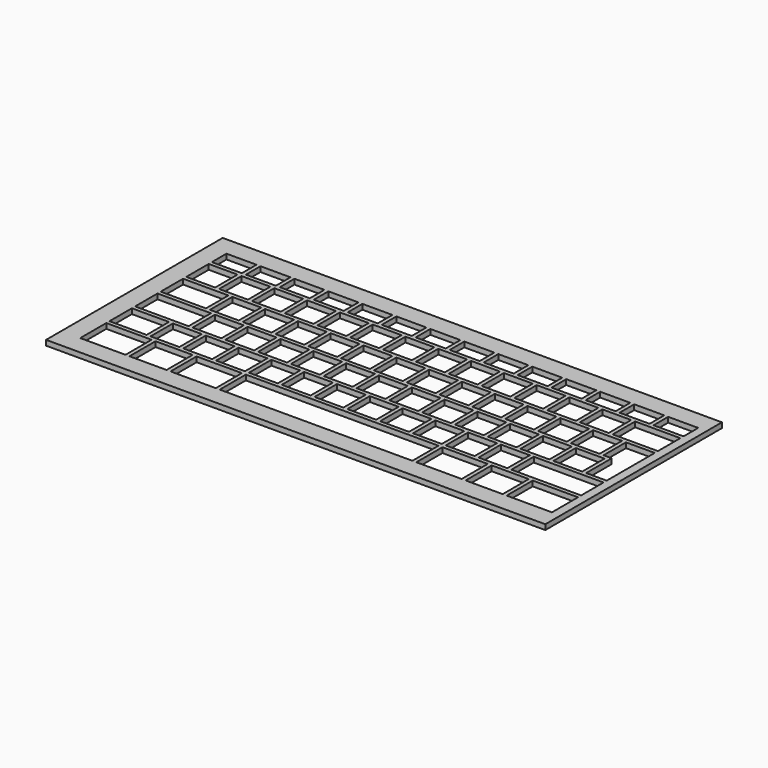
from build123d import *

# Parameters (mm, degrees)
F0_W     = 26.25
F0_H     = 18.9
F0_W_2   = 21.5
F0_H_2   = 16.25
F0_W_3   = 16.72
F0_W_4   = 31
F0_W_5   = 111.7
F0_W_6   = 40.44
F0_W_7   = 17.4
F0_H_3   = 10.6
F0_W_8   = 26.2
F1_DEPTH = 3


with BuildPart() as f1:
    # F0 (on Top) → F1 (new body)
    with BuildSketch(Plane.XY):
        Polygon((75.046707, -80.251948), (-214.413293, -80.251948), (-214.413293, -208.251948), (75.046707, -208.251948), (75.046707, -201.251948), (75.046707, -87.251948), align=None)
        with Locations((-190.288293, -187.801948)):
            Rectangle(F0_W, F0_H, mode=Mode.SUBTRACT)
        with Locations((-164.113293, -187.801948)):
            Rectangle(F0_W_2, F0_H, mode=Mode.SUBTRACT)
        with Locations((-137.938293, -187.801948)):
            Rectangle(F0_W, F0_H, mode=Mode.SUBTRACT)
        with Locations((-192.663293, -167.926948)):
            Rectangle(F0_W_2, F0_H_2, mode=Mode.SUBTRACT)
        with Locations((-171.253293, -167.926948)):
            Rectangle(F0_W_3, F0_H_2, mode=Mode.SUBTRACT)
        with Locations((-152.233293, -167.926948)):
            Rectangle(F0_W_3, F0_H_2, mode=Mode.SUBTRACT)
        with Locations((-187.913293, -149.376948)):
            Rectangle(F0_W_4, F0_H_2, mode=Mode.SUBTRACT)
        with Locations((-161.753293, -149.376948)):
            Rectangle(F0_W_3, F0_H_2, mode=Mode.SUBTRACT)
        with Locations((-142.733293, -149.376948)):
            Rectangle(F0_W_3, F0_H_2, mode=Mode.SUBTRACT)
        with Locations((-133.213293, -167.926948)):
            Rectangle(F0_W_3, F0_H_2, mode=Mode.SUBTRACT)
        with Locations((-114.193293, -167.926948)):
            Rectangle(F0_W_3, F0_H_2, mode=Mode.SUBTRACT)
        with Locations((-95.173293, -167.926948)):
            Rectangle(F0_W_3, F0_H_2, mode=Mode.SUBTRACT)
        with Locations((-76.153293, -167.926948)):
            Rectangle(F0_W_3, F0_H_2, mode=Mode.SUBTRACT)
        with Locations((-123.713293, -149.376948)):
            Rectangle(F0_W_3, F0_H_2, mode=Mode.SUBTRACT)
        with Locations((-104.693293, -149.376948)):
            Rectangle(F0_W_3, F0_H_2, mode=Mode.SUBTRACT)
        with Locations((-85.673293, -149.376948)):
            Rectangle(F0_W_3, F0_H_2, mode=Mode.SUBTRACT)
        with Locations((-66.663293, -187.801948)):
            Rectangle(F0_W_5, F0_H, mode=Mode.SUBTRACT)
        with Locations((4.611707, -187.801948)):
            Rectangle(F0_W, F0_H, mode=Mode.SUBTRACT)
        with Locations((30.786707, -187.801948)):
            Rectangle(F0_W_2, F0_H, mode=Mode.SUBTRACT)
        with Locations((56.961707, -187.801948)):
            Rectangle(F0_W, F0_H, mode=Mode.SUBTRACT)
        with Locations((-57.133293, -167.926948)):
            Rectangle(F0_W_3, F0_H_2, mode=Mode.SUBTRACT)
        with Locations((-38.113293, -167.926948)):
            Rectangle(F0_W_3, F0_H_2, mode=Mode.SUBTRACT)
        with Locations((-19.093293, -167.926948)):
            Rectangle(F0_W_3, F0_H_2, mode=Mode.SUBTRACT)
        with Locations((-0.073293, -167.926948)):
            Rectangle(F0_W_3, F0_H_2, mode=Mode.SUBTRACT)
        with Locations((-66.653293, -149.376948)):
            Rectangle(F0_W_3, F0_H_2, mode=Mode.SUBTRACT)
        with Locations((-47.633293, -149.376948)):
            Rectangle(F0_W_3, F0_H_2, mode=Mode.SUBTRACT)
        with Locations((-28.613293, -149.376948)):
            Rectangle(F0_W_3, F0_H_2, mode=Mode.SUBTRACT)
        with Locations((-9.593293, -149.376948)):
            Rectangle(F0_W_3, F0_H_2, mode=Mode.SUBTRACT)
        with Locations((18.946707, -167.926948)):
            Rectangle(F0_W_3, F0_H_2, mode=Mode.SUBTRACT)
        with Locations((49.826707, -167.926948)):
            Rectangle(F0_W_6, F0_H_2, mode=Mode.SUBTRACT)
        with Locations((9.426707, -149.376948)):
            Rectangle(F0_W_3, F0_H_2, mode=Mode.SUBTRACT)
        with Locations((28.446707, -149.376948)):
            Rectangle(F0_W_3, F0_H_2, mode=Mode.SUBTRACT)
        with Locations((47.466707, -149.376948)):
            Rectangle(F0_W_3, F0_H_2, mode=Mode.SUBTRACT)
        with Locations((-190.288293, -130.826948)):
            Rectangle(F0_W, F0_H_2, mode=Mode.SUBTRACT)
        with Locations((-166.503293, -130.826948)):
            Rectangle(F0_W_3, F0_H_2, mode=Mode.SUBTRACT)
        with Locations((-147.483293, -130.826948)):
            Rectangle(F0_W_3, F0_H_2, mode=Mode.SUBTRACT)
        with Locations((-195.053293, -112.276948)):
            Rectangle(F0_W_3, F0_H_2, mode=Mode.SUBTRACT)
        with Locations((-176.033293, -112.276948)):
            Rectangle(F0_W_3, F0_H_2, mode=Mode.SUBTRACT)
        with Locations((-157.013293, -112.276948)):
            Rectangle(F0_W_3, F0_H_2, mode=Mode.SUBTRACT)
        with Locations((-128.463293, -130.826948)):
            Rectangle(F0_W_3, F0_H_2, mode=Mode.SUBTRACT)
        with Locations((-109.443293, -130.826948)):
            Rectangle(F0_W_3, F0_H_2, mode=Mode.SUBTRACT)
        with Locations((-90.423293, -130.826948)):
            Rectangle(F0_W_3, F0_H_2, mode=Mode.SUBTRACT)
        with Locations((-71.403293, -130.826948)):
            Rectangle(F0_W_3, F0_H_2, mode=Mode.SUBTRACT)
        with Locations((-137.993293, -112.276948)):
            Rectangle(F0_W_3, F0_H_2, mode=Mode.SUBTRACT)
        with Locations((-118.973293, -112.276948)):
            Rectangle(F0_W_3, F0_H_2, mode=Mode.SUBTRACT)
        with Locations((-99.953293, -112.276948)):
            Rectangle(F0_W_3, F0_H_2, mode=Mode.SUBTRACT)
        with Locations((-80.933293, -112.276948)):
            Rectangle(F0_W_3, F0_H_2, mode=Mode.SUBTRACT)
        with Locations((-194.713293, -96.551948)):
            Rectangle(F0_W_7, F0_H_3, mode=Mode.SUBTRACT)
        with Locations((-175.013293, -96.551948)):
            Rectangle(F0_W_7, F0_H_3, mode=Mode.SUBTRACT)
        with Locations((-155.313293, -96.551948)):
            Rectangle(F0_W_7, F0_H_3, mode=Mode.SUBTRACT)
        with Locations((-135.613293, -96.551948)):
            Rectangle(F0_W_7, F0_H_3, mode=Mode.SUBTRACT)
        with Locations((-115.913293, -96.551948)):
            Rectangle(F0_W_7, F0_H_3, mode=Mode.SUBTRACT)
        with Locations((-96.213293, -96.551948)):
            Rectangle(F0_W_7, F0_H_3, mode=Mode.SUBTRACT)
        with Locations((-76.513293, -96.551948)):
            Rectangle(F0_W_7, F0_H_3, mode=Mode.SUBTRACT)
        with Locations((-52.383293, -130.826948)):
            Rectangle(F0_W_3, F0_H_2, mode=Mode.SUBTRACT)
        with Locations((-33.363293, -130.826948)):
            Rectangle(F0_W_3, F0_H_2, mode=Mode.SUBTRACT)
        with Locations((-14.343293, -130.826948)):
            Rectangle(F0_W_3, F0_H_2, mode=Mode.SUBTRACT)
        with Locations((-61.913293, -112.276948)):
            Rectangle(F0_W_3, F0_H_2, mode=Mode.SUBTRACT)
        with Locations((-42.893293, -112.276948)):
            Rectangle(F0_W_3, F0_H_2, mode=Mode.SUBTRACT)
        with Locations((-23.873293, -112.276948)):
            Rectangle(F0_W_3, F0_H_2, mode=Mode.SUBTRACT)
        with Locations((-4.853293, -112.276948)):
            Rectangle(F0_W_3, F0_H_2, mode=Mode.SUBTRACT)
        with Locations((4.676707, -130.826948)):
            Rectangle(F0_W_3, F0_H_2, mode=Mode.SUBTRACT)
        with Locations((23.696707, -130.826948)):
            Rectangle(F0_W_3, F0_H_2, mode=Mode.SUBTRACT)
        Polygon((53.376707, -122.701948), (70.046707, -122.701948), (70.046707, -157.501948), (58.126707, -157.501948), (58.126707, -138.951948), (53.376707, -138.951948), align=None, mode=Mode.SUBTRACT)
        with Locations((42.716707, -130.826948)):
            Rectangle(F0_W_3, F0_H_2, mode=Mode.SUBTRACT)
        with Locations((14.166707, -112.276948)):
            Rectangle(F0_W_3, F0_H_2, mode=Mode.SUBTRACT)
        with Locations((33.186707, -112.276948)):
            Rectangle(F0_W_3, F0_H_2, mode=Mode.SUBTRACT)
        with Locations((56.946707, -112.276948)):
            Rectangle(F0_W_8, F0_H_2, mode=Mode.SUBTRACT)
        with Locations((-56.813293, -96.551948)):
            Rectangle(F0_W_7, F0_H_3, mode=Mode.SUBTRACT)
        with Locations((-37.113293, -96.551948)):
            Rectangle(F0_W_7, F0_H_3, mode=Mode.SUBTRACT)
        with Locations((-17.413293, -96.551948)):
            Rectangle(F0_W_7, F0_H_3, mode=Mode.SUBTRACT)
        with Locations((2.286707, -96.551948)):
            Rectangle(F0_W_7, F0_H_3, mode=Mode.SUBTRACT)
        with Locations((21.986707, -96.551948)):
            Rectangle(F0_W_7, F0_H_3, mode=Mode.SUBTRACT)
        with Locations((41.686707, -96.551948)):
            Rectangle(F0_W_7, F0_H_3, mode=Mode.SUBTRACT)
        with Locations((61.386707, -96.551948)):
            Rectangle(F0_W_7, F0_H_3, mode=Mode.SUBTRACT)
        Polygon((75.046707, -80.251948), (-214.413293, -80.251948), (-214.413293, -208.251948), (75.046707, -208.251948), (75.046707, -201.251948), (75.046707, -87.251948), align=None)
        with Locations((-190.288293, -187.801948)):
            Rectangle(F0_W, F0_H, mode=Mode.SUBTRACT)
        with Locations((-164.113293, -187.801948)):
            Rectangle(F0_W_2, F0_H, mode=Mode.SUBTRACT)
        with Locations((-137.938293, -187.801948)):
            Rectangle(F0_W, F0_H, mode=Mode.SUBTRACT)
        with Locations((-192.663293, -167.926948)):
            Rectangle(F0_W_2, F0_H_2, mode=Mode.SUBTRACT)
        with Locations((-171.253293, -167.926948)):
            Rectangle(F0_W_3, F0_H_2, mode=Mode.SUBTRACT)
        with Locations((-152.233293, -167.926948)):
            Rectangle(F0_W_3, F0_H_2, mode=Mode.SUBTRACT)
        with Locations((-187.913293, -149.376948)):
            Rectangle(F0_W_4, F0_H_2, mode=Mode.SUBTRACT)
        with Locations((-161.753293, -149.376948)):
            Rectangle(F0_W_3, F0_H_2, mode=Mode.SUBTRACT)
        with Locations((-142.733293, -149.376948)):
            Rectangle(F0_W_3, F0_H_2, mode=Mode.SUBTRACT)
        with Locations((-133.213293, -167.926948)):
            Rectangle(F0_W_3, F0_H_2, mode=Mode.SUBTRACT)
        with Locations((-114.193293, -167.926948)):
            Rectangle(F0_W_3, F0_H_2, mode=Mode.SUBTRACT)
        with Locations((-95.173293, -167.926948)):
            Rectangle(F0_W_3, F0_H_2, mode=Mode.SUBTRACT)
        with Locations((-76.153293, -167.926948)):
            Rectangle(F0_W_3, F0_H_2, mode=Mode.SUBTRACT)
        with Locations((-123.713293, -149.376948)):
            Rectangle(F0_W_3, F0_H_2, mode=Mode.SUBTRACT)
        with Locations((-104.693293, -149.376948)):
            Rectangle(F0_W_3, F0_H_2, mode=Mode.SUBTRACT)
        with Locations((-85.673293, -149.376948)):
            Rectangle(F0_W_3, F0_H_2, mode=Mode.SUBTRACT)
        with Locations((-66.663293, -187.801948)):
            Rectangle(F0_W_5, F0_H, mode=Mode.SUBTRACT)
        with Locations((4.611707, -187.801948)):
            Rectangle(F0_W, F0_H, mode=Mode.SUBTRACT)
        with Locations((30.786707, -187.801948)):
            Rectangle(F0_W_2, F0_H, mode=Mode.SUBTRACT)
        with Locations((56.961707, -187.801948)):
            Rectangle(F0_W, F0_H, mode=Mode.SUBTRACT)
        with Locations((-57.133293, -167.926948)):
            Rectangle(F0_W_3, F0_H_2, mode=Mode.SUBTRACT)
        with Locations((-38.113293, -167.926948)):
            Rectangle(F0_W_3, F0_H_2, mode=Mode.SUBTRACT)
        with Locations((-19.093293, -167.926948)):
            Rectangle(F0_W_3, F0_H_2, mode=Mode.SUBTRACT)
        with Locations((-0.073293, -167.926948)):
            Rectangle(F0_W_3, F0_H_2, mode=Mode.SUBTRACT)
        with Locations((-66.653293, -149.376948)):
            Rectangle(F0_W_3, F0_H_2, mode=Mode.SUBTRACT)
        with Locations((-47.633293, -149.376948)):
            Rectangle(F0_W_3, F0_H_2, mode=Mode.SUBTRACT)
        with Locations((-28.613293, -149.376948)):
            Rectangle(F0_W_3, F0_H_2, mode=Mode.SUBTRACT)
        with Locations((-9.593293, -149.376948)):
            Rectangle(F0_W_3, F0_H_2, mode=Mode.SUBTRACT)
        with Locations((18.946707, -167.926948)):
            Rectangle(F0_W_3, F0_H_2, mode=Mode.SUBTRACT)
        with Locations((49.826707, -167.926948)):
            Rectangle(F0_W_6, F0_H_2, mode=Mode.SUBTRACT)
        with Locations((9.426707, -149.376948)):
            Rectangle(F0_W_3, F0_H_2, mode=Mode.SUBTRACT)
        with Locations((28.446707, -149.376948)):
            Rectangle(F0_W_3, F0_H_2, mode=Mode.SUBTRACT)
        with Locations((47.466707, -149.376948)):
            Rectangle(F0_W_3, F0_H_2, mode=Mode.SUBTRACT)
        with Locations((-190.288293, -130.826948)):
            Rectangle(F0_W, F0_H_2, mode=Mode.SUBTRACT)
        with Locations((-166.503293, -130.826948)):
            Rectangle(F0_W_3, F0_H_2, mode=Mode.SUBTRACT)
        with Locations((-147.483293, -130.826948)):
            Rectangle(F0_W_3, F0_H_2, mode=Mode.SUBTRACT)
        with Locations((-195.053293, -112.276948)):
            Rectangle(F0_W_3, F0_H_2, mode=Mode.SUBTRACT)
        with Locations((-176.033293, -112.276948)):
            Rectangle(F0_W_3, F0_H_2, mode=Mode.SUBTRACT)
        with Locations((-157.013293, -112.276948)):
            Rectangle(F0_W_3, F0_H_2, mode=Mode.SUBTRACT)
        with Locations((-128.463293, -130.826948)):
            Rectangle(F0_W_3, F0_H_2, mode=Mode.SUBTRACT)
        with Locations((-109.443293, -130.826948)):
            Rectangle(F0_W_3, F0_H_2, mode=Mode.SUBTRACT)
        with Locations((-90.423293, -130.826948)):
            Rectangle(F0_W_3, F0_H_2, mode=Mode.SUBTRACT)
        with Locations((-71.403293, -130.826948)):
            Rectangle(F0_W_3, F0_H_2, mode=Mode.SUBTRACT)
        with Locations((-137.993293, -112.276948)):
            Rectangle(F0_W_3, F0_H_2, mode=Mode.SUBTRACT)
        with Locations((-118.973293, -112.276948)):
            Rectangle(F0_W_3, F0_H_2, mode=Mode.SUBTRACT)
        with Locations((-99.953293, -112.276948)):
            Rectangle(F0_W_3, F0_H_2, mode=Mode.SUBTRACT)
        with Locations((-80.933293, -112.276948)):
            Rectangle(F0_W_3, F0_H_2, mode=Mode.SUBTRACT)
        with Locations((-194.713293, -96.551948)):
            Rectangle(F0_W_7, F0_H_3, mode=Mode.SUBTRACT)
        with Locations((-175.013293, -96.551948)):
            Rectangle(F0_W_7, F0_H_3, mode=Mode.SUBTRACT)
        with Locations((-155.313293, -96.551948)):
            Rectangle(F0_W_7, F0_H_3, mode=Mode.SUBTRACT)
        with Locations((-135.613293, -96.551948)):
            Rectangle(F0_W_7, F0_H_3, mode=Mode.SUBTRACT)
        with Locations((-115.913293, -96.551948)):
            Rectangle(F0_W_7, F0_H_3, mode=Mode.SUBTRACT)
        with Locations((-96.213293, -96.551948)):
            Rectangle(F0_W_7, F0_H_3, mode=Mode.SUBTRACT)
        with Locations((-76.513293, -96.551948)):
            Rectangle(F0_W_7, F0_H_3, mode=Mode.SUBTRACT)
        with Locations((-52.383293, -130.826948)):
            Rectangle(F0_W_3, F0_H_2, mode=Mode.SUBTRACT)
        with Locations((-33.363293, -130.826948)):
            Rectangle(F0_W_3, F0_H_2, mode=Mode.SUBTRACT)
        with Locations((-14.343293, -130.826948)):
            Rectangle(F0_W_3, F0_H_2, mode=Mode.SUBTRACT)
        with Locations((-61.913293, -112.276948)):
            Rectangle(F0_W_3, F0_H_2, mode=Mode.SUBTRACT)
        with Locations((-42.893293, -112.276948)):
            Rectangle(F0_W_3, F0_H_2, mode=Mode.SUBTRACT)
        with Locations((-23.873293, -112.276948)):
            Rectangle(F0_W_3, F0_H_2, mode=Mode.SUBTRACT)
        with Locations((-4.853293, -112.276948)):
            Rectangle(F0_W_3, F0_H_2, mode=Mode.SUBTRACT)
        with Locations((4.676707, -130.826948)):
            Rectangle(F0_W_3, F0_H_2, mode=Mode.SUBTRACT)
        with Locations((23.696707, -130.826948)):
            Rectangle(F0_W_3, F0_H_2, mode=Mode.SUBTRACT)
        Polygon((53.376707, -122.701948), (70.046707, -122.701948), (70.046707, -157.501948), (58.126707, -157.501948), (58.126707, -138.951948), (53.376707, -138.951948), align=None, mode=Mode.SUBTRACT)
        with Locations((42.716707, -130.826948)):
            Rectangle(F0_W_3, F0_H_2, mode=Mode.SUBTRACT)
        with Locations((14.166707, -112.276948)):
            Rectangle(F0_W_3, F0_H_2, mode=Mode.SUBTRACT)
        with Locations((33.186707, -112.276948)):
            Rectangle(F0_W_3, F0_H_2, mode=Mode.SUBTRACT)
        with Locations((56.946707, -112.276948)):
            Rectangle(F0_W_8, F0_H_2, mode=Mode.SUBTRACT)
        with Locations((-56.813293, -96.551948)):
            Rectangle(F0_W_7, F0_H_3, mode=Mode.SUBTRACT)
        with Locations((-37.113293, -96.551948)):
            Rectangle(F0_W_7, F0_H_3, mode=Mode.SUBTRACT)
        with Locations((-17.413293, -96.551948)):
            Rectangle(F0_W_7, F0_H_3, mode=Mode.SUBTRACT)
        with Locations((2.286707, -96.551948)):
            Rectangle(F0_W_7, F0_H_3, mode=Mode.SUBTRACT)
        with Locations((21.986707, -96.551948)):
            Rectangle(F0_W_7, F0_H_3, mode=Mode.SUBTRACT)
        with Locations((41.686707, -96.551948)):
            Rectangle(F0_W_7, F0_H_3, mode=Mode.SUBTRACT)
        with Locations((61.386707, -96.551948)):
            Rectangle(F0_W_7, F0_H_3, mode=Mode.SUBTRACT)
    extrude(amount=F1_DEPTH)


solid = f1.part
